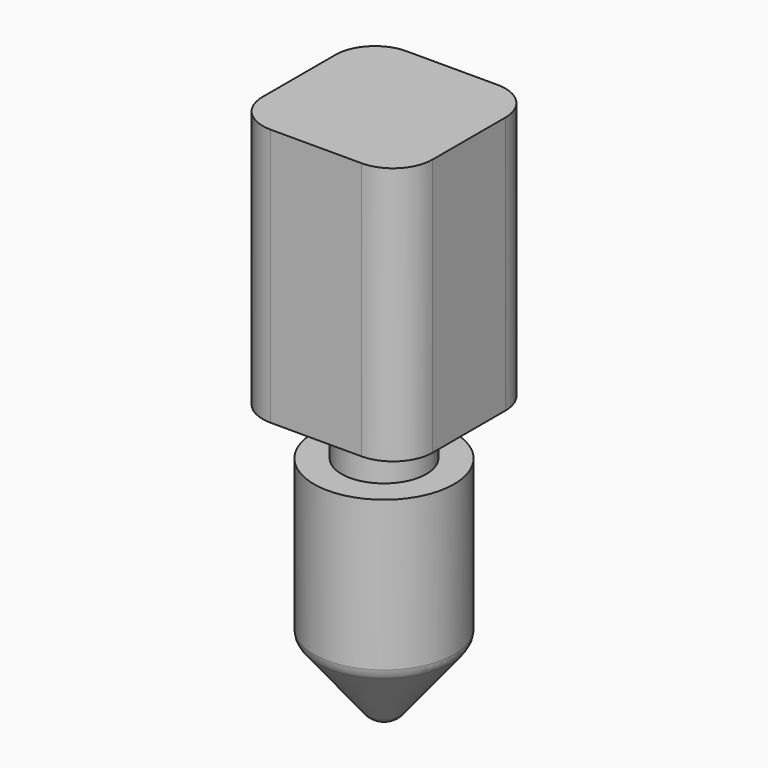
from build123d import *

# Parameters (mm, degrees)
F0_W     = 6.604
F0_H     = 6.604
F1_DEPTH = 10.033
F2_R     = 1.651
F3_DEPTH = 2.032
F7_R     = 0.8136293968
F8_R     = 1.5330256121
F9_R     = 0.551182731


with BuildPart() as f1:
    # F0 (on Top) → F1 (new body)
    with BuildSketch(Plane.XY):
        Rectangle(F0_W, F0_H)
    extrude(amount=F1_DEPTH)

    # F2 (on face) → F3 (join)
    with BuildSketch(Plane(origin=(0, 0, 0), x_dir=(1, 0, 0), z_dir=(0, 0, -1))):
        Circle(F2_R)
    extrude(amount=F3_DEPTH)

    # F5 (on mid) → F6 (revolve)
    with BuildSketch(Plane.XZ):
        Polygon((2.7225008234, -1.9854432903), (1.6116809566, -1.9854432903), (0, -1.9854432903), (0, -10.8945909888), (0.4067335685, -10.8945909888), (2.7225008234, -8.0052432903), align=None)
    revolve(axis=Axis((0, 0, -6.4400171395), (0, 0, 1)))

    # F7
    f7_edges = [f1.edges().sort_by_distance(p)[0] for p in [
        (-0.406734, 0, -10.894591),
    ]]
    fillet(f7_edges, radius=F7_R)

    # F8
    f8_edges = [f1.edges().sort_by_distance(p)[0] for p in [
        (-3.302, -3.302, 5.0165),
        (3.302, -3.302, 5.0165),
        (3.302, 3.302, 5.0165),
        (-3.302, 3.302, 5.0165),
    ]]
    fillet(f8_edges, radius=F8_R)

    # F9
    f9_edges = [f1.edges().sort_by_distance(p)[0] for p in [
        (-2.722501, 0, -8.005243),
    ]]
    fillet(f9_edges, radius=F9_R)


solid = f1.part
